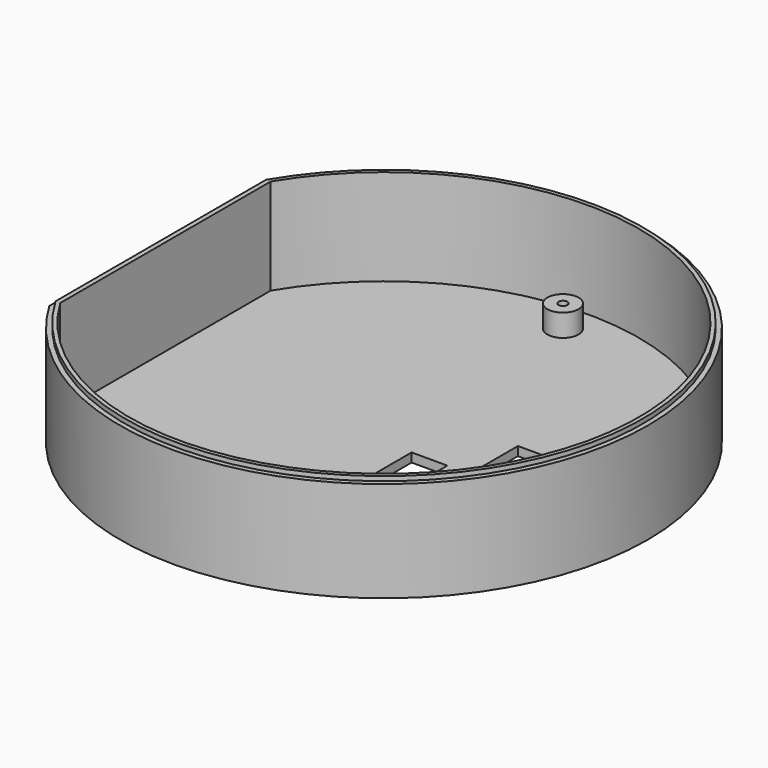
from build123d import *

# Parameters (mm, degrees)
F1_DEPTH  = 2
F3_R      = 3.5
F3_R_2    = 1
F5_DEPTH  = 5
F2_W      = 2
F2_H      = 13
F2_H_2    = 18.4
F2_H_3    = 10
F6_DEPTH  = 20.5
F8_DEPTH  = 1
F4_W      = 21
F4_H      = 41
F9_DEPTH  = 25
F10_DEPTH = 25
F11_SIZE2 = 1.5
F11_SIZE  = 1.5
F4_W_2    = 8
F4_H_2    = 10
F12_DEPTH = 25


with BuildPart() as f1:
    # F0 (on Top) → F1 (new body)
    with BuildSketch(Plane.XY):
        with BuildLine():
            Line((-50.9090909091, 30), (-50.9090909091, -30))
            ThreePointArc((-50.9090909091, -30), (59.0909090909, 0), (-50.9090909091, 30))
        make_face()
    extrude(amount=F1_DEPTH)

    # F3 (on face) → F5 (join)
    with BuildSketch(Plane.XY.offset(2)):
        with Locations((0, -50.0909090909)):
            Circle(F3_R)
        with Locations((0, -50.0909090909)):
            Circle(F3_R_2, mode=Mode.SUBTRACT)
        with Locations((0, 50.0909090909)):
            Circle(F3_R)
        with Locations((0, 50.0909090909)):
            Circle(F3_R_2, mode=Mode.SUBTRACT)
        with Locations((50.0909090909, 0)):
            Circle(F3_R)
        with Locations((50.0909090909, 0)):
            Circle(F3_R_2, mode=Mode.SUBTRACT)
    extrude(amount=F5_DEPTH)

    # F2 (on face) → F6 (join)
    with BuildSketch(Plane.XY.offset(2)):
        with BuildLine():
            ThreePointArc((-48.9090909091, 29.4494945164), (57.0909090909, 0), (-48.9090909091, -29.4494945164))
            Line((-48.9090909091, -29.4494945164), (-48.9090909091, -22.0505054836))
            Line((-48.9090909091, -22.0505054836), (-50.9090909091, -22.0505054836))
            Line((-50.9090909091, -22.0505054836), (-50.9090909091, -30))
            ThreePointArc((-50.9090909091, -30), (59.0909090909, 0), (-50.9090909091, 30))
            Line((-50.9090909091, 30), (-50.9090909091, 19.3494945164))
            Line((-50.9090909091, 19.3494945164), (-48.9090909091, 19.3494945164))
            Line((-48.9090909091, 19.3494945164), (-48.9090909091, 29.4494945164))
        make_face()
        with Locations((-49.9090909091, 12.8494945164)):
            Rectangle(F2_W, F2_H)
        with Locations((-49.9090909091, -2.8505054836)):
            Rectangle(F2_W, F2_H_2)
        with Locations((-49.9090909091, -17.0505054836)):
            Rectangle(F2_W, F2_H_3)
    extrude(amount=F6_DEPTH)

    # F7 (on face) → F8 (join)
    with BuildSketch(Plane.XY.offset(22.5)):
        with BuildLine():
            Line((-49.9567093584, 29.4494945164), (-49.9567093584, -29.4494945164))
            ThreePointArc((-49.9567093584, -29.4494945164), (57.9909090909, 0), (-49.9567093584, 29.4494945164))
        make_face()
        with BuildLine():
            ThreePointArc((-48.9090909091, 29.4494945164), (57.0909090909, 0), (-48.9090909091, -29.4494945164))
            Line((-48.9090909091, -29.4494945164), (-48.9090909091, 29.4494945164))
        make_face(mode=Mode.SUBTRACT)
    extrude(amount=F8_DEPTH)

    # F4 (on face) → F9 (cut)
    with BuildSketch(Plane.XY.offset(2)):
        with Locations((32.0909090909, -10)):
            Rectangle(F4_W, F4_H)
    extrude(amount=-F9_DEPTH, mode=Mode.SUBTRACT)

    # F3 (on face) → F10 (cut)
    with BuildSketch(Plane.XY.offset(2)):
        with Locations((0, 50.0909090909)):
            Circle(F3_R_2)
        with Locations((50.0909090909, 0)):
            Circle(F3_R_2)
        with Locations((0, -50.0909090909)):
            Circle(F3_R_2)
    extrude(amount=-F10_DEPTH, mode=Mode.SUBTRACT)

    # F11
    f11_edges = [f1.edges().sort_by_distance(p)[0] for p in [
        (-1, -50.090909, 0),
        (49.090909, 0, 0),
        (-1, 50.090909, 0),
    ]]
    chamfer(f11_edges, length=F11_SIZE, length2=F11_SIZE2)

    # F4 (on face) → F12 (cut)
    with BuildSketch(Plane.XY.offset(2)):
        with Locations((12.5909090909, -8)):
            Rectangle(F4_W_2, F4_H_2)
    extrude(amount=-F12_DEPTH, mode=Mode.SUBTRACT)


solid = f1.part
